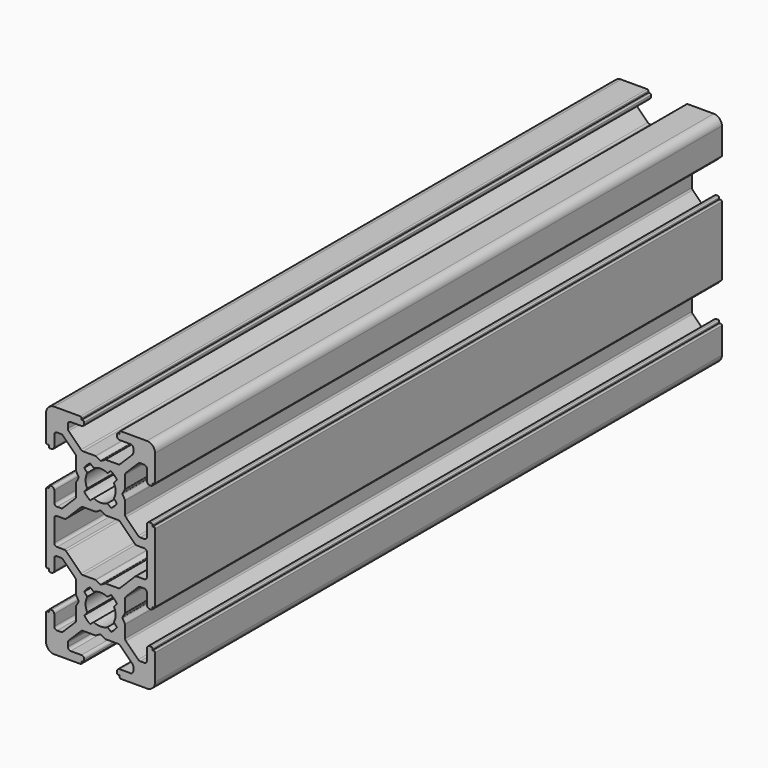
from build123d import *

# Parameters (mm, degrees)
PAD030_DEPTH           = 140
PAD029_DEPTH           = 140
PAD028_DEPTH           = 130
POCKET032_DEPTH        = 130.001
CUT042_PITCH_ANGLE     = 90
CUT042_PLACEMENT_ANGLE = 90


with BuildPart() as pad030:
    # Sketch064 → Pad030 (new body)
    with BuildSketch(Plane.XY.offset(130)):
        with BuildLine():
            ThreePointArc((-6.689641, 8.086105), (-6.20841, 7.488263), (-5.609931, 7.007825))
            Line((-4.958185, 7.554705), (-5.609931, 7.007825))
            ThreePointArc((-4.958185, 7.554705), (-3.7, 7.25), (-2.441814, 7.554705))
            Line((-1.790069, 7.007825), (-2.441814, 7.554705))
            ThreePointArc((-1.790069, 7.007825), (-1.191589, 7.488263), (-0.710359, 8.086105))
            Line((-1.254704, 8.741815), (-0.710359, 8.086105))
            ThreePointArc((-1.254704, 8.741815), (-0.95, 10), (-1.254704, 11.258185))
            Line((-0.710359, 11.913895), (-1.254704, 11.258185))
            ThreePointArc((-0.710359, 11.913895), (-1.191589, 12.511737), (-1.790069, 12.992175))
            Line((-2.441814, 12.445295), (-1.790069, 12.992175))
            ThreePointArc((-2.441814, 12.445295), (-3.7, 12.75), (-4.958185, 12.445295))
            Line((-5.609931, 12.992175), (-4.958185, 12.445295))
            ThreePointArc((-5.609931, 12.992175), (-6.20841, 12.511737), (-6.689641, 11.913895))
            Line((-6.145295, 11.258185), (-6.689641, 11.913895))
            ThreePointArc((-6.145295, 11.258185), (-6.45, 10), (-6.145295, 8.741815))
            Line((-6.689641, 8.086105), (-6.145295, 8.741815))
        make_face()
    extrude(amount=-PAD030_DEPTH)


with BuildPart() as fusion041:
    # Sketch065 → Pad029 (new body)
    with BuildSketch(Plane.XY.offset(130)):
        with BuildLine():
            ThreePointArc((13.310359, 8.086105), (13.79159, 7.488263), (14.390069, 7.007825))
            Line((15.041815, 7.554705), (14.390069, 7.007825))
            ThreePointArc((15.041815, 7.554705), (16.3, 7.25), (17.558186, 7.554705))
            Line((18.209931, 7.007825), (17.558186, 7.554705))
            ThreePointArc((18.209931, 7.007825), (18.808411, 7.488263), (19.289641, 8.086105))
            Line((18.745296, 8.741815), (19.289641, 8.086105))
            ThreePointArc((18.745296, 8.741815), (19.05, 10), (18.745296, 11.258185))
            Line((19.289641, 11.913895), (18.745296, 11.258185))
            ThreePointArc((19.289641, 11.913895), (18.808411, 12.511737), (18.209931, 12.992175))
            Line((17.558186, 12.445295), (18.209931, 12.992175))
            ThreePointArc((17.558186, 12.445295), (16.3, 12.75), (15.041815, 12.445295))
            Line((14.390069, 12.992175), (15.041815, 12.445295))
            ThreePointArc((14.390069, 12.992175), (13.79159, 12.511737), (13.310359, 11.913895))
            Line((13.854705, 11.258185), (13.310359, 11.913895))
            ThreePointArc((13.854705, 11.258185), (13.55, 10), (13.854705, 8.741815))
            Line((13.310359, 8.086105), (13.854705, 8.741815))
        make_face()
    extrude(amount=-PAD029_DEPTH)

    # Fusion041: union Pad030
    add(pad030.part)


with BuildPart() as obj1:
    # Sketch062 → Pad028 (new body)
    with BuildSketch(Plane.XY):
        with BuildLine():
            Line((-13.7, 1.5), (-13.7, 6.3))
            ThreePointArc((-13.5, 6.5), (-13.641421, 6.441421), (-13.7, 6.3))
            Line((-13.5, 6.5), (-13.2, 6.5))
            Line((-13.2, 6.5), (-13.2, 6.8))
            ThreePointArc((-13, 7), (-13.141421, 6.941421), (-13.2, 6.8))
            Line((-13, 7), (-12.699999, 7))
            ThreePointArc((-12.199999, 6.5), (-12.346446, 6.853553), (-12.699999, 7))
            Line((-12.199999, 6.5), (-12.199999, 4.499999))
            ThreePointArc((-12.199999, 4.499999), (-12.053553, 4.146446), (-11.699999, 3.999999))
            Line((-11.699999, 3.999999), (-10.967766, 3.999999))
            ThreePointArc((-10.967766, 3.999999), (-10.776425, 4.03806), (-10.614213, 4.146446))
            Line((-10.614213, 4.146446), (-8.346446, 6.414213))
            ThreePointArc((-8.346446, 6.414213), (-8.23806, 6.576424), (-8.2, 6.767766))
            Line((-8.2, 6.767766), (-8.2, 9.04641))
            ThreePointArc((-8.173205, 9.14641), (-8.193185, 9.098173), (-8.2, 9.04641))
            Line((-8.173205, 9.14641), (-7.738119, 9.9))
            ThreePointArc((-7.738119, 9.9), (-7.711324, 10), (-7.738119, 10.1))
            Line((-7.738119, 10.1), (-8.173205, 10.85359))
            ThreePointArc((-8.2, 10.95359), (-8.193185, 10.901827), (-8.173205, 10.85359))
            Line((-8.2, 10.95359), (-8.2, 13.232234))
            ThreePointArc((-8.2, 13.232234), (-8.23806, 13.423576), (-8.346446, 13.585787))
            Line((-8.346446, 13.585787), (-10.614213, 15.853554))
            ThreePointArc((-10.614213, 15.853554), (-10.776425, 15.96194), (-10.967766, 16.000001))
            Line((-10.967766, 16.000001), (-11.699999, 16.000001))
            ThreePointArc((-11.699999, 16.000001), (-12.053553, 15.853554), (-12.199999, 15.500001))
            Line((-12.199999, 15.500001), (-12.199999, 13.5))
            ThreePointArc((-12.699999, 13), (-12.346446, 13.146447), (-12.199999, 13.5))
            Line((-12.699999, 13), (-13, 13))
            ThreePointArc((-13.2, 13.2), (-13.141421, 13.058579), (-13, 13))
            Line((-13.2, 13.2), (-13.2, 13.5))
            Line((-13.2, 13.5), (-13.5, 13.5))
            ThreePointArc((-13.7, 13.7), (-13.641421, 13.558579), (-13.5, 13.5))
            Line((-13.7, 13.7), (-13.7, 18.5))
            ThreePointArc((-12.2, 20), (-13.26066, 19.56066), (-13.7, 18.5))
            Line((-12.2, 20), (-7.399999, 20))
            ThreePointArc((-7.199999, 19.8), (-7.258578, 19.941421), (-7.399999, 20))
            Line((-7.199999, 19.8), (-7.199999, 19.5))
            Line((-7.199999, 19.5), (-6.9, 19.5))
            ThreePointArc((-6.7, 19.3), (-6.758578, 19.441421), (-6.9, 19.5))
            Line((-6.7, 19.3), (-6.7, 19))
            ThreePointArc((-7.2, 18.5), (-6.846446, 18.646446), (-6.7, 19))
            Line((-7.2, 18.5), (-9.199999, 18.5))
            ThreePointArc((-9.199999, 18.5), (-9.553553, 18.353553), (-9.699999, 18))
            Line((-9.699999, 18), (-9.699999, 17.267767))
            ThreePointArc((-9.699999, 17.267767), (-9.661939, 17.076425), (-9.553553, 16.914213))
            Line((-9.553553, 16.914213), (-7.285786, 14.646446))
            ThreePointArc((-7.285786, 14.646446), (-7.123574, 14.53806), (-6.932232, 14.5))
            Line((-6.932232, 14.5), (-4.653589, 14.5))
            ThreePointArc((-4.553589, 14.473205), (-4.601825, 14.493185), (-4.653589, 14.5))
            Line((-4.553589, 14.473205), (-3.8, 14.03812))
            ThreePointArc((-3.8, 14.03812), (-3.7, 14.011325), (-3.6, 14.03812))
            Line((-3.6, 14.03812), (-2.84641, 14.473205))
            ThreePointArc((-2.74641, 14.5), (-2.798174, 14.493185), (-2.84641, 14.473205))
            Line((-2.74641, 14.5), (-0.467767, 14.5))
            ThreePointArc((-0.467767, 14.5), (-0.276425, 14.53806), (-0.114214, 14.646446))
            Line((-0.114214, 14.646446), (2.153553, 16.914213))
            ThreePointArc((2.153553, 16.914213), (2.26194, 17.076425), (2.3, 17.267767))
            Line((2.3, 17.267767), (2.3, 18))
            ThreePointArc((2.3, 18), (2.153553, 18.353553), (1.8, 18.5))
            Line((1.8, 18.5), (-0.2, 18.5))
            ThreePointArc((-0.7, 19), (-0.553553, 18.646446), (-0.2, 18.5))
            Line((-0.7, 19), (-0.7, 19.3))
            ThreePointArc((-0.5, 19.5), (-0.641421, 19.441421), (-0.7, 19.3))
            Line((-0.5, 19.5), (-0.2, 19.5))
            Line((-0.2, 19.5), (-0.2, 19.8))
            ThreePointArc((0, 20), (-0.141421, 19.941421), (-0.2, 19.8))
            Line((0, 20), (12.600001, 20))
            ThreePointArc((12.800001, 19.8), (12.741422, 19.941421), (12.600001, 20))
            Line((12.800001, 19.8), (12.800001, 19.5))
            Line((12.800001, 19.5), (13.1, 19.5))
            ThreePointArc((13.3, 19.3), (13.241422, 19.441421), (13.1, 19.5))
            Line((13.3, 19.3), (13.3, 19))
            ThreePointArc((12.8, 18.5), (13.153554, 18.646446), (13.3, 19))
            Line((12.8, 18.5), (10.800001, 18.5))
            ThreePointArc((10.800001, 18.5), (10.446447, 18.353553), (10.300001, 18))
            Line((10.300001, 18), (10.300001, 17.267767))
            ThreePointArc((10.300001, 17.267767), (10.338061, 17.076425), (10.446447, 16.914213))
            Line((10.446447, 16.914213), (12.714214, 14.646446))
            ThreePointArc((12.714214, 14.646446), (12.876426, 14.53806), (13.067768, 14.5))
            Line((13.067768, 14.5), (15.346411, 14.5))
            ThreePointArc((15.446411, 14.473205), (15.398175, 14.493185), (15.346411, 14.5))
            Line((15.446411, 14.473205), (16.2, 14.03812))
            ThreePointArc((16.2, 14.03812), (16.3, 14.011325), (16.4, 14.03812))
            Line((16.4, 14.03812), (17.15359, 14.473205))
            ThreePointArc((17.25359, 14.5), (17.201826, 14.493185), (17.15359, 14.473205))
            Line((17.25359, 14.5), (19.532233, 14.5))
            ThreePointArc((19.532233, 14.5), (19.723575, 14.53806), (19.885786, 14.646446))
            Line((19.885786, 14.646446), (22.153553, 16.914213))
            ThreePointArc((22.153553, 16.914213), (22.26194, 17.076425), (22.3, 17.267767))
            Line((22.3, 17.267767), (22.3, 18))
            ThreePointArc((22.3, 18), (22.153553, 18.353553), (21.8, 18.5))
            Line((21.8, 18.5), (19.8, 18.5))
            ThreePointArc((19.3, 19), (19.446447, 18.646446), (19.8, 18.5))
            Line((19.3, 19), (19.3, 19.3))
            ThreePointArc((19.5, 19.5), (19.358579, 19.441421), (19.3, 19.3))
            Line((19.5, 19.5), (19.8, 19.5))
            Line((19.8, 19.5), (19.8, 19.8))
            ThreePointArc((20, 20), (19.858579, 19.941421), (19.8, 19.8))
            Line((20, 20), (24.8, 20))
            ThreePointArc((26.3, 18.5), (25.860661, 19.56066), (24.8, 20))
            Line((26.3, 18.5), (26.3, 13.7))
            ThreePointArc((26.1, 13.5), (26.241422, 13.558579), (26.3, 13.7))
            Line((26.1, 13.5), (25.8, 13.5))
            Line((25.8, 13.5), (25.8, 13.2))
            ThreePointArc((25.6, 13), (25.741422, 13.058579), (25.8, 13.2))
            Line((25.6, 13), (25.3, 13))
            ThreePointArc((24.8, 13.5), (24.946447, 13.146447), (25.3, 13))
            Line((24.8, 13.5), (24.8, 15.500001))
            ThreePointArc((24.8, 15.500001), (24.653553, 15.853554), (24.3, 16.000001))
            Line((24.3, 16.000001), (23.567767, 16.000001))
            ThreePointArc((23.567767, 16.000001), (23.376425, 15.96194), (23.214214, 15.853554))
            Line((23.214214, 15.853554), (20.946447, 13.585787))
            ThreePointArc((20.946447, 13.585787), (20.838061, 13.423576), (20.8, 13.232234))
            Line((20.8, 13.232234), (20.8, 10.95359))
            ThreePointArc((20.773205, 10.85359), (20.793186, 10.901827), (20.8, 10.95359))
            Line((20.773205, 10.85359), (20.33812, 10.1))
            ThreePointArc((20.33812, 10.1), (20.311325, 10), (20.33812, 9.9))
            Line((20.33812, 9.9), (20.773205, 9.14641))
            ThreePointArc((20.8, 9.04641), (20.793186, 9.098173), (20.773205, 9.14641))
            Line((20.8, 9.04641), (20.8, 6.767766))
            ThreePointArc((20.8, 6.767766), (20.838061, 6.576424), (20.946447, 6.414213))
            Line((20.946447, 6.414213), (23.214214, 4.146446))
            ThreePointArc((23.214214, 4.146446), (23.376425, 4.03806), (23.567767, 3.999999))
            Line((23.567767, 3.999999), (24.3, 3.999999))
            ThreePointArc((24.3, 3.999999), (24.653553, 4.146446), (24.8, 4.499999))
            Line((24.8, 4.499999), (24.8, 6.5))
            ThreePointArc((25.3, 7), (24.946447, 6.853553), (24.8, 6.5))
            Line((25.3, 7), (25.6, 7))
            ThreePointArc((25.8, 6.8), (25.741422, 6.941421), (25.6, 7))
            Line((25.8, 6.8), (25.8, 6.5))
            Line((25.8, 6.5), (26.1, 6.5))
            ThreePointArc((26.3, 6.3), (26.241422, 6.441421), (26.1, 6.5))
            Line((26.3, 6.3), (26.3, 1.5))
            ThreePointArc((24.8, 0), (25.860661, 0.43934), (26.3, 1.5))
            Line((24.8, 0), (20, 0))
            ThreePointArc((19.8, 0.2), (19.858579, 0.058579), (20, 0))
            Line((19.8, 0.2), (19.8, 0.5))
            Line((19.8, 0.5), (19.5, 0.5))
            ThreePointArc((19.3, 0.7), (19.358579, 0.558579), (19.5, 0.5))
            Line((19.3, 0.7), (19.3, 1))
            ThreePointArc((19.8, 1.5), (19.446447, 1.353554), (19.3, 1))
            Line((19.8, 1.5), (21.8, 1.5))
            ThreePointArc((21.8, 1.5), (22.153553, 1.646447), (22.3, 2))
            Line((22.3, 2), (22.3, 2.732233))
            ThreePointArc((22.3, 2.732233), (22.26194, 2.923575), (22.153553, 3.085787))
            Line((22.153553, 3.085787), (19.885786, 5.353554))
            ThreePointArc((19.885786, 5.353554), (19.723575, 5.46194), (19.532233, 5.5))
            Line((19.532233, 5.5), (17.25359, 5.5))
            ThreePointArc((17.15359, 5.526795), (17.201826, 5.506815), (17.25359, 5.5))
            Line((17.15359, 5.526795), (16.4, 5.96188))
            ThreePointArc((16.4, 5.96188), (16.3, 5.988675), (16.2, 5.96188))
            Line((16.2, 5.96188), (15.446411, 5.526795))
            ThreePointArc((15.346411, 5.5), (15.398175, 5.506815), (15.446411, 5.526795))
            Line((15.346411, 5.5), (13.067768, 5.5))
            ThreePointArc((13.067768, 5.5), (12.876426, 5.46194), (12.714214, 5.353554))
            Line((12.714214, 5.353554), (10.446447, 3.085787))
            ThreePointArc((10.446447, 3.085787), (10.338061, 2.923575), (10.300001, 2.732233))
            Line((10.300001, 2.732233), (10.300001, 2))
            ThreePointArc((10.300001, 2), (10.446447, 1.646447), (10.800001, 1.5))
            Line((10.800001, 1.5), (12.8, 1.5))
            ThreePointArc((13.3, 1), (13.153554, 1.353554), (12.8, 1.5))
            Line((13.3, 1), (13.3, 0.7))
            ThreePointArc((13.1, 0.5), (13.241422, 0.558579), (13.3, 0.7))
            Line((13.1, 0.5), (12.800001, 0.5))
            Line((12.800001, 0.5), (12.800001, 0.2))
            ThreePointArc((12.600001, 0), (12.741422, 0.058579), (12.800001, 0.2))
            Line((12.600001, 0), (0, 0))
            ThreePointArc((-0.2, 0.2), (-0.141421, 0.058579), (0, 0))
            Line((-0.2, 0.2), (-0.2, 0.5))
            Line((-0.2, 0.5), (-0.5, 0.5))
            ThreePointArc((-0.7, 0.7), (-0.641421, 0.558579), (-0.5, 0.5))
            Line((-0.7, 0.7), (-0.7, 1))
            ThreePointArc((-0.2, 1.5), (-0.553553, 1.353554), (-0.7, 1))
            Line((-0.2, 1.5), (1.8, 1.5))
            ThreePointArc((1.8, 1.5), (2.153553, 1.646447), (2.3, 2))
            Line((2.3, 2), (2.3, 2.732233))
            ThreePointArc((2.3, 2.732233), (2.26194, 2.923575), (2.153553, 3.085787))
            Line((2.153553, 3.085787), (-0.114214, 5.353554))
            ThreePointArc((-0.114214, 5.353554), (-0.276425, 5.46194), (-0.467767, 5.5))
            Line((-0.467767, 5.5), (-2.74641, 5.5))
            ThreePointArc((-2.84641, 5.526795), (-2.798174, 5.506815), (-2.74641, 5.5))
            Line((-2.84641, 5.526795), (-3.6, 5.96188))
            ThreePointArc((-3.6, 5.96188), (-3.7, 5.988675), (-3.8, 5.96188))
            Line((-3.8, 5.96188), (-4.553589, 5.526795))
            ThreePointArc((-4.653589, 5.5), (-4.601825, 5.506815), (-4.553589, 5.526795))
            Line((-4.653589, 5.5), (-6.932232, 5.5))
            ThreePointArc((-6.932232, 5.5), (-7.123574, 5.46194), (-7.285786, 5.353554))
            Line((-7.285786, 5.353554), (-9.553553, 3.085787))
            ThreePointArc((-9.553553, 3.085787), (-9.661939, 2.923575), (-9.699999, 2.732233))
            Line((-9.699999, 2.732233), (-9.699999, 2))
            ThreePointArc((-9.699999, 2), (-9.553553, 1.646447), (-9.199999, 1.5))
            Line((-9.199999, 1.5), (-7.2, 1.5))
            ThreePointArc((-6.7, 1), (-6.846446, 1.353554), (-7.2, 1.5))
            Line((-6.7, 1), (-6.7, 0.7))
            ThreePointArc((-6.9, 0.5), (-6.758578, 0.558579), (-6.7, 0.7))
            Line((-6.9, 0.5), (-7.199999, 0.5))
            Line((-7.199999, 0.5), (-7.199999, 0.2))
            ThreePointArc((-7.399999, 0), (-7.258578, 0.058579), (-7.199999, 0.2))
            Line((-7.399999, 0), (-12.2, 0))
            ThreePointArc((-13.7, 1.5), (-13.26066, 0.43934), (-12.2, 0))
        make_face()
    extrude(amount=PAD028_DEPTH)

    # Sketch063 → Pocket032 (cut, through all)
    with BuildSketch(Plane.XY.offset(130)):
        with BuildLine():
            ThreePointArc((3.8, 3.353549), (3.76194, 3.54489), (3.653554, 3.707102))
            Line((3.653554, 3.707102), (0.946447, 6.414213))
            ThreePointArc((0.8, 6.767766), (0.838061, 6.576424), (0.946447, 6.414213))
            Line((0.8, 6.767766), (0.8, 9.046406))
            ThreePointArc((0.8, 9.046406), (0.793186, 9.09817), (0.773205, 9.146406))
            Line((0.773205, 9.146406), (0.33812, 9.9))
            ThreePointArc((0.33812, 10.1), (0.311325, 10), (0.33812, 9.9))
            Line((0.33812, 10.1), (0.773205, 10.85359))
            ThreePointArc((0.773205, 10.85359), (0.793186, 10.901826), (0.8, 10.95359))
            Line((0.8, 10.95359), (0.8, 13.23223))
            ThreePointArc((0.946447, 13.585783), (0.838061, 13.423571), (0.8, 13.23223))
            Line((0.946447, 13.585783), (3.653554, 16.292894))
            ThreePointArc((3.653554, 16.292894), (3.76194, 16.455106), (3.8, 16.646447))
            Line((3.8, 16.646447), (3.8, 18))
            ThreePointArc((4.3, 18.5), (3.946447, 18.353553), (3.8, 18))
            Line((4.3, 18.5), (8.3, 18.5))
            ThreePointArc((8.8, 18), (8.653554, 18.353553), (8.3, 18.5))
            Line((8.8, 18), (8.800001, 16.646448))
            ThreePointArc((8.800001, 16.646448), (8.838061, 16.455106), (8.946447, 16.292895))
            Line((8.946447, 16.292895), (11.653554, 13.585784))
            ThreePointArc((11.8, 13.23223), (11.76194, 13.423572), (11.653554, 13.585784))
            Line((11.8, 13.23223), (11.8, 10.95359))
            ThreePointArc((11.8, 10.95359), (11.806815, 10.901827), (11.826795, 10.85359))
            Line((11.826795, 10.85359), (12.261881, 10.1))
            ThreePointArc((12.261881, 9.9), (12.288676, 10), (12.261881, 10.1))
            Line((12.261881, 9.9), (11.826795, 9.14641))
            ThreePointArc((11.826795, 9.14641), (11.806815, 9.098174), (11.8, 9.04641))
            Line((11.8, 9.04641), (11.8, 6.76777))
            ThreePointArc((11.653554, 6.414217), (11.76194, 6.576428), (11.8, 6.76777))
            Line((11.653554, 6.414217), (8.946447, 3.707106))
            ThreePointArc((8.946447, 3.707106), (8.838061, 3.544894), (8.8, 3.353552))
            Line((8.8, 3.353552), (8.8, 2))
            ThreePointArc((8.3, 1.5), (8.653554, 1.646447), (8.8, 2))
            Line((8.3, 1.5), (4.3, 1.5))
            ThreePointArc((3.8, 2), (3.946447, 1.646447), (4.3, 1.5))
            Line((3.8, 2), (3.8, 3.353549))
        make_face()
    extrude(amount=-POCKET032_DEPTH, mode=Mode.SUBTRACT)

    # Cut042: cut Fusion041
    add(fusion041.part, mode=Mode.SUBTRACT)


with BuildPart() as obj1_1:
    # Cut042 pitch: moved
    add(obj1.part.rotate(Axis((0, 0, 0), (0, 1, 0)), CUT042_PITCH_ANGLE))


with BuildPart() as obj1_2:
    # Cut042 placement: moved
    add(obj1_1.part.moved(Location((32, -120, 19))).rotate(Axis((32, -120, 19), (0, 0, 1)), CUT042_PLACEMENT_ANGLE))


solid = obj1_2.part
